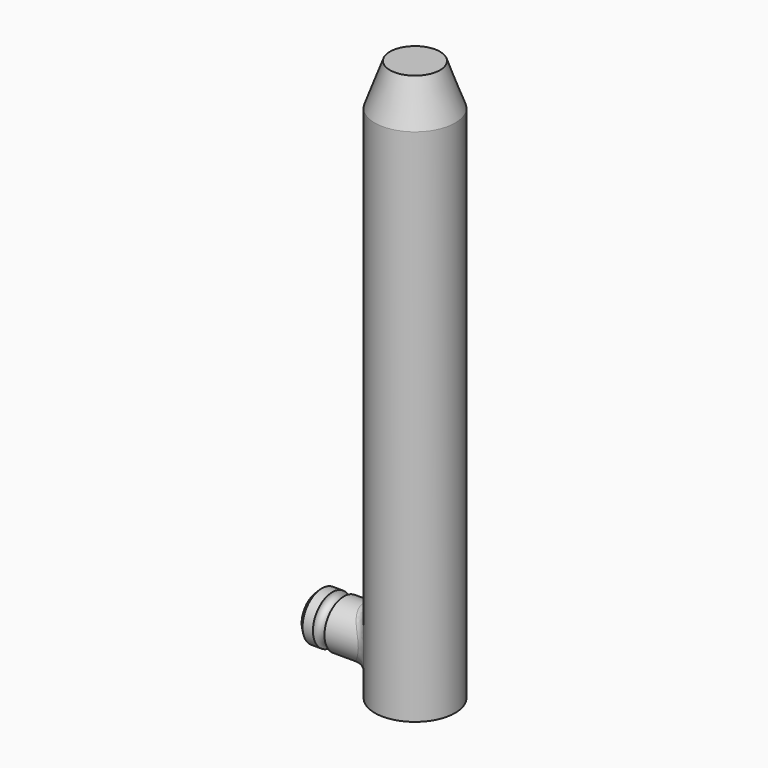
from build123d import *

# Parameters (mm, degrees)
F0_R     = 1.74
F1_DEPTH = 24.3
F2_SIZE2 = 0.655146
F2_SIZE  = 1.8
F3_R     = 1.05
F4_DEPTH = 4.23
F7_SIZE  = 0.2
F8_R     = 0.5


with BuildPart() as f1:
    # F0 (on Top) → F1 (new body)
    with BuildSketch(Plane.XY):
        Circle(F0_R)
    extrude(amount=F1_DEPTH)

    # F2
    f2_edges = [f1.edges().sort_by_distance(p)[0] for p in [
        (-1.74, 0, 24.3),
    ]]
    chamfer(f2_edges, length=F2_SIZE, length2=F2_SIZE2)

    # F3 (on Right) → F4 (join)
    with BuildSketch(Plane.YZ):
        with Locations((0, 1.831419)):
            Circle(F3_R)
    extrude(amount=-F4_DEPTH)

    # F5 (on Front) → F6 (revolve, cut)
    with BuildSketch(Plane.XZ):
        with BuildLine():
            Line((-3.08, 4.59), (-3.58, 4.59))
            Line((-3.58, 4.59), (-3.58, 2.89))
            ThreePointArc((-3.58, 2.89), (-3.33, 2.64), (-3.08, 2.89))
            Line((-3.08, 2.89), (-3.08, 4.59))
        make_face()
    revolve(axis=Axis((-4.23, 0, 1.831419), (1, 0, 0)), mode=Mode.SUBTRACT)

    # F7
    f7_edges = [f1.edges().sort_by_distance(p)[0] for p in [
        (-4.23, -1.05, 1.831419),
    ]]
    chamfer(f7_edges, length=F7_SIZE)

    # F8
    f8_edges = [f1.edges().sort_by_distance(p)[0] for p in [
        (-1.38748, -1.05, 1.831419),
    ]]
    fillet(f8_edges, radius=F8_R)


solid = f1.part
